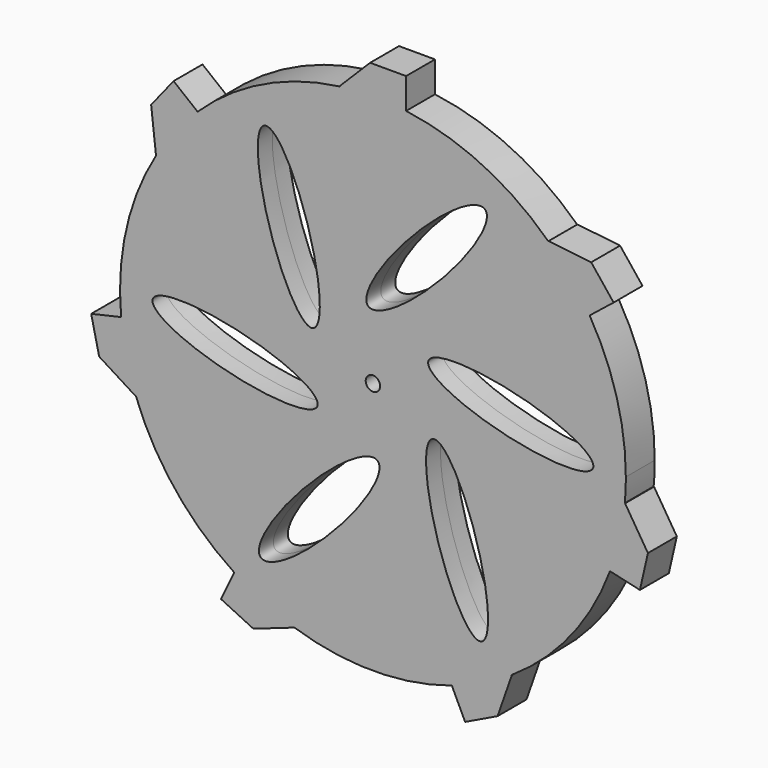
from build123d import *

# Parameters (mm, degrees)
F0_R     = 1.27
F1_DEPTH = 3.175
F2_SIZE  = 5.334


with BuildPart() as f1:
    # F0 (on Front) → F1 (new body, symmetric)
    with BuildSketch(Plane.XZ):
        with BuildLine():
            ThreePointArc((44.258528, -4.121313), (44.402106, -2.062879), (44.45, 0))
            ThreePointArc((44.45, 0), (42.829819, 11.891557), (38.087385, 22.916231))
            ThreePointArc((38.087385, 22.916231), (34.752409, 27.714122), (30.816913, 32.033113))
            ThreePointArc((30.816913, 32.033113), (19.286132, 40.048066), (5.830465, 44.065953))
            ThreePointArc((5.830465, 44.065953), (0, 44.45), (-5.830465, 44.065953))
            ThreePointArc((-5.830465, 44.065953), (-19.286132, 40.048066), (-30.816913, 32.033113))
            ThreePointArc((-30.816913, 32.033113), (-34.752409, 27.714122), (-38.087385, 22.916231))
            ThreePointArc((-38.087385, 22.916231), (-43.335546, 9.891056), (-44.258528, -4.121313))
            ThreePointArc((-44.258528, -4.121313), (-43.335546, -9.891056), (-41.663726, -15.48988))
            ThreePointArc((-41.663726, -15.48988), (-34.752409, -27.714122), (-24.372568, -37.172307))
            ThreePointArc((-24.372568, -37.172307), (-19.286132, -40.048066), (-13.866432, -42.231796))
            ThreePointArc((-13.866432, -42.231796), (0, -44.45), (13.866432, -42.231796))
            ThreePointArc((13.866432, -42.231796), (19.286132, -40.048066), (24.372568, -37.172307))
            ThreePointArc((24.372568, -37.172307), (34.752409, -27.714122), (41.663726, -15.48988))
            ThreePointArc((41.663726, -15.48988), (43.335546, -9.891056), (44.258528, -4.121313))
        make_face()
        with BuildLine():
            add(Edge.make_bspline(
                [(0.834731, -11.71119), (-3.66602, -7.434163), (-16.824949, -25.788016), (-29.983878, -44.141868), (-12.324198, -30.065043), (5.335483, -15.988218), (0.834731, -11.71119)],
                knots=[0, 0, 0, 2.094395, 2.094395, 4.18879, 4.18879, 6.283185, 6.283185, 6.283185], degree=2, weights=[1, 0.5, 1, 0.5, 1, 0.5, 1]))
        make_face(mode=Mode.SUBTRACT)
        with BuildLine():
            add(Edge.make_bspline(
                [(-9.724823, -6.578494), (-8.271184, -0.542215), (-30.745551, 1.676825), (-53.219918, 3.895866), (-32.19919, -4.359453), (-11.178461, -12.614772), (-9.724823, -6.578494)],
                knots=[0, 0, 0, 2.094395, 2.094395, 4.18879, 4.18879, 6.283185, 6.283185, 6.283185], degree=2, weights=[1, 0.5, 1, 0.5, 1, 0.5, 1]))
        make_face(mode=Mode.SUBTRACT)
        with BuildLine():
            add(Edge.make_bspline(
                [(10.559554, -5.132697), (4.605164, -6.891948), (13.920602, -27.464841), (23.23604, -48.037734), (19.874992, -25.70559), (16.513944, -3.373445), (10.559554, -5.132697)],
                knots=[0, 0, 0, 2.094395, 2.094395, 4.18879, 4.18879, 6.283185, 6.283185, 6.283185], degree=2, weights=[1, 0.5, 1, 0.5, 1, 0.5, 1]))
        make_face(mode=Mode.SUBTRACT)
        Circle(F0_R, mode=Mode.SUBTRACT)
        with BuildLine():
            add(Edge.make_bspline(
                [(-10.559554, 5.132697), (-4.605164, 6.891948), (-13.920602, 27.464841), (-23.23604, 48.037734), (-19.874992, 25.70559), (-16.513944, 3.373445), (-10.559554, 5.132697)],
                knots=[0, 0, 0, 2.094395, 2.094395, 4.18879, 4.18879, 6.283185, 6.283185, 6.283185], degree=2, weights=[1, 0.5, 1, 0.5, 1, 0.5, 1]))
        make_face(mode=Mode.SUBTRACT)
        with BuildLine():
            add(Edge.make_bspline(
                [(9.724823, 6.578494), (8.271184, 0.542215), (30.745551, -1.676825), (53.219918, -3.895866), (32.19919, 4.359453), (11.178461, 12.614772), (9.724823, 6.578494)],
                knots=[0, 0, 0, 2.094395, 2.094395, 4.18879, 4.18879, 6.283185, 6.283185, 6.283185], degree=2, weights=[1, 0.5, 1, 0.5, 1, 0.5, 1]))
        make_face(mode=Mode.SUBTRACT)
        with BuildLine():
            add(Edge.make_bspline(
                [(-0.834731, 11.71119), (3.66602, 7.434163), (16.824949, 25.788016), (29.983878, 44.141868), (12.324198, 30.065043), (-5.335483, 15.988218), (-0.834731, 11.71119)],
                knots=[0, 0, 0, 2.094395, 2.094395, 4.18879, 4.18879, 6.283185, 6.283185, 6.283185], degree=2, weights=[1, 0.5, 1, 0.5, 1, 0.5, 1]))
        make_face(mode=Mode.SUBTRACT)
        with BuildLine():
            ThreePointArc((-38.087385, 22.916231), (-34.752409, 27.714122), (-30.816913, 32.033113))
            Line((-30.816913, 32.033113), (-35.036249, 35.397922))
            Line((-35.036249, 35.397922), (-42.306721, 26.281039))
            Line((-42.306721, 26.281039), (-38.087385, 22.916231))
        make_face()
        with BuildLine():
            ThreePointArc((-5.830465, 44.065953), (0, 44.45), (5.830465, 44.065953))
            Line((5.830465, 44.065953), (5.830465, 49.462686))
            Line((5.830465, 49.462686), (-5.830465, 49.462686))
            Line((-5.830465, 49.462686), (-5.830465, 44.065953))
        make_face()
        with BuildLine():
            ThreePointArc((30.816913, 32.033113), (34.752409, 27.714122), (38.087385, 22.916231))
            Line((38.087385, 22.916231), (42.306721, 26.281039))
            Line((42.306721, 26.281039), (35.036249, 35.397922))
            Line((35.036249, 35.397922), (30.816913, 32.033113))
        make_face()
        with BuildLine():
            Line((49.519954, -5.3222), (44.258528, -4.121313))
            ThreePointArc((44.258528, -4.121313), (43.335546, -9.891056), (41.663726, -15.48988))
            Line((41.663726, -15.48988), (46.925153, -16.690767))
            Line((46.925153, -16.690767), (49.519954, -5.3222))
        make_face()
        with BuildLine():
            Line((26.714123, -42.034596), (24.372568, -37.172307))
            ThreePointArc((24.372568, -37.172307), (19.286132, -40.048066), (13.866432, -42.231796))
            Line((13.866432, -42.231796), (16.207987, -47.094084))
            Line((16.207987, -47.094084), (26.714123, -42.034596))
        make_face()
        with BuildLine():
            Line((-16.207987, -47.094084), (-13.866432, -42.231796))
            ThreePointArc((-13.866432, -42.231796), (-19.286132, -40.048066), (-24.372568, -37.172307))
            Line((-24.372568, -37.172307), (-26.714123, -42.034596))
            Line((-26.714123, -42.034596), (-16.207987, -47.094084))
        make_face()
        with BuildLine():
            ThreePointArc((-41.663726, -15.48988), (-43.335546, -9.891056), (-44.258528, -4.121313))
            Line((-44.258528, -4.121313), (-49.519954, -5.3222))
            Line((-49.519954, -5.3222), (-46.925153, -16.690767))
            Line((-46.925153, -16.690767), (-41.663726, -15.48988))
        make_face()
    extrude(amount=F1_DEPTH, both=True)

    # F2
    f2_edges = [f1.edges().sort_by_distance(p)[0] for p in [
        (-42.306721, 0, 26.281039),
        (-46.925153, 0, -16.690767),
        (-5.830465, 0, 49.462686),
        (35.036249, 0, 35.397922),
        (49.519954, 0, -5.3222),
        (26.714123, 0, -42.034596),
        (-16.207987, 0, -47.094084),
    ]]
    chamfer(f2_edges, length=F2_SIZE)


solid = f1.part
